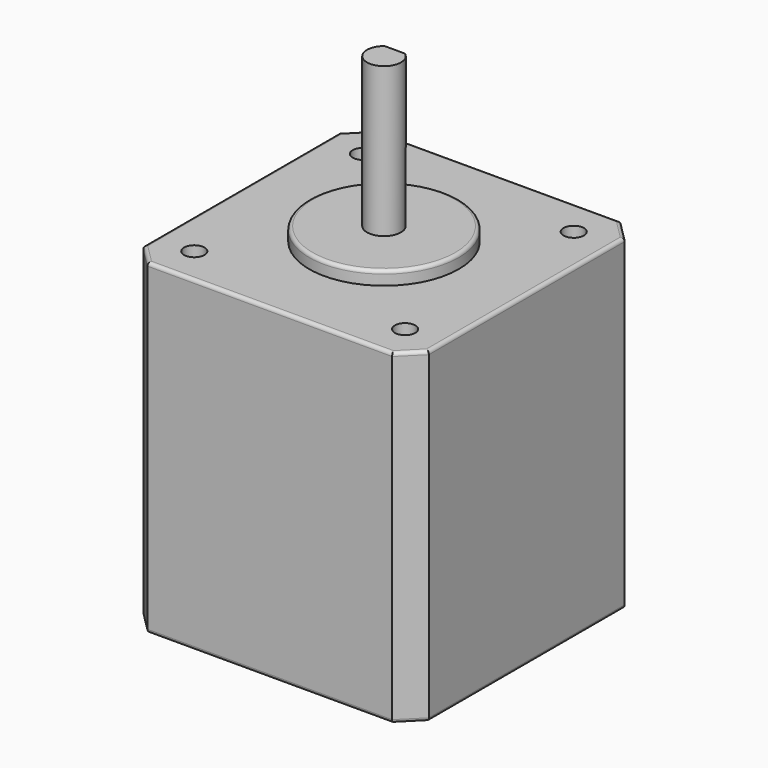
from build123d import *

# Parameters (mm, degrees)
F2_W      = 42
F2_H      = 42
F3_DEPTH  = 48
F4_R      = 1.5
F5_DEPTH  = 7
F4_R_2    = 11
F6_DEPTH  = 2
F7_R      = 2.5
F8_DEPTH  = 22
F10_DEPTH = 17
F11_SIZE  = 3
F12_R     = 0.5
F13_R     = 0.5
F14_R     = 0.5


with BuildPart() as f3:
    # F2 (on Top) → F3 (new body)
    with BuildSketch(Plane.XY):
        Rectangle(F2_W, F2_H)
    extrude(amount=F3_DEPTH)

    # F4 (on face) → F5 (cut)
    with BuildSketch(Plane.XY.offset(48)):
        with Locations((-15.5, -15.5)):
            Circle(F4_R)
        with Locations((-15.5, 15.5)):
            Circle(F4_R)
        with Locations((15.5, 15.5)):
            Circle(F4_R)
        with Locations((15.5, -15.5)):
            Circle(F4_R)
    extrude(amount=-F5_DEPTH, mode=Mode.SUBTRACT)

    # F4 (on face) → F6 (join)
    with BuildSketch(Plane.XY.offset(48)):
        Circle(F4_R_2)
    extrude(amount=F6_DEPTH)

    # F7 (on face) → F8 (join)
    with BuildSketch(Plane.XY.offset(50)):
        Circle(F7_R)
    extrude(amount=F8_DEPTH)

    # F9 (on face) → F10 (cut)
    with BuildSketch(Plane.XY.offset(72)):
        with BuildLine():
            ThreePointArc((1.5, 2), (0, 2.5), (-1.5, 2))
            Line((-1.5, 2), (1.5, 2))
        make_face()
    extrude(amount=-F10_DEPTH, mode=Mode.SUBTRACT)

    # F11
    f11_edges = [f3.edges().sort_by_distance(p)[0] for p in [
        (21, -21, 24),
        (21, 21, 24),
        (-21, -21, 24),
        (-21, 21, 24),
    ]]
    chamfer(f11_edges, length=F11_SIZE)

    # F12
    f12_edges = [f3.edges().sort_by_distance(p)[0] for p in [
        (0, 21, 48),
        (19.5, 19.5, 48),
        (21, 0, 48),
        (19.5, -19.5, 48),
        (0, -21, 48),
        (-19.5, -19.5, 48),
        (-21, 0, 48),
        (-19.5, 19.5, 48),
    ]]
    fillet(f12_edges, radius=F12_R)

    # F13
    f13_edges = [f3.edges().sort_by_distance(p)[0] for p in [
        (-19.5, 19.5, 0),
        (0, 21, 0),
        (19.5, 19.5, 0),
        (21, 0, 0),
        (19.5, -19.5, 0),
        (0, -21, 0),
        (-19.5, -19.5, 0),
        (-21, 0, 0),
    ]]
    fillet(f13_edges, radius=F13_R)

    # F14
    f14_edges = [f3.edges().sort_by_distance(p)[0] for p in [
        (-11, 0, 50),
    ]]
    fillet(f14_edges, radius=F14_R)


solid = f3.part
